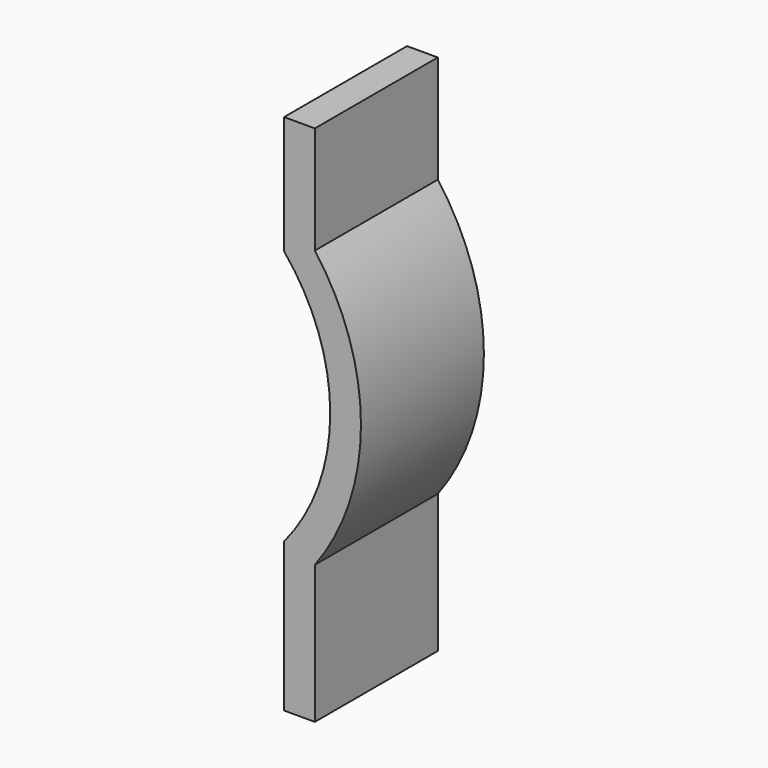
from build123d import *

# Parameters (mm, degrees)
F1_DEPTH = 25


with BuildPart() as f1:
    # F0 (on Front) → F1 (new body)
    with BuildSketch(Plane.XZ):
        with BuildLine():
            Line((5, 0), (0, 0))
            Line((0, 0), (0, -19.23344))
            ThreePointArc((0, -19.23344), (7.5, -40), (0, -60.76656))
            Line((0, -60.76656), (0, -85))
            Line((0, -85), (5, -85))
            Line((5, -85), (5, -62.5))
            ThreePointArc((5, -62.5), (12.5, -40), (5, -17.5))
            Line((5, -17.5), (5, 0))
        make_face()
    extrude(amount=F1_DEPTH)


solid = f1.part
